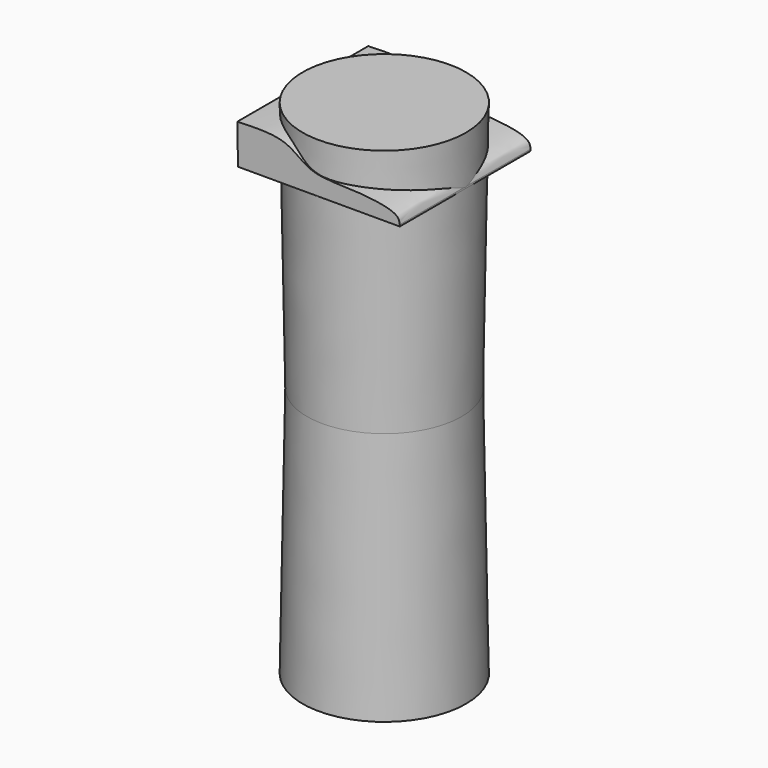
from build123d import *

# Parameters (mm, degrees)
F0_R     = 40
F1_DEPTH = 130
F1_TAPER = -1
F3_DEPTH = 42.3


with BuildPart() as f1:
    # F0 (on Top) → F1 (new body, symmetric)
    with BuildSketch(Plane.XY):
        Circle(F0_R)
    extrude(amount=F1_DEPTH, both=True, taper=F1_TAPER)

    # F2 (on Front) → F3 (join, symmetric)
    with BuildSketch(Plane.XZ):
        with BuildLine():
            Line((-42.1773418784, 124.7276589274), (-41.8206006289, 104.2985767126))
            Line((-41.8206006289, 104.2985767126), (41.8297946453, 104.2985767126))
            Line((41.8297946453, 104.2985767126), (41.8297946453, 105.1812469959))
            add(Edge.make_bspline(
                [(41.8297946453, 105.1812469959), (41.6157749104, 106.4704419084), (40.8982761169, 110.7911137137), (16.6683555436, 113.676945109), (-4.7971868357, 112.7602899856), (-16.7488550533, 125.8858769621), (-32.83872998, 124.9895518745), (-41.8206006289, 124.7496157885)],
                knots=[0, 0, 0, 0, 0.0993196903, 0.3330971636, 0.5644044532, 0.7569190321, 1, 1, 1, 1], degree=3))
            Line((-41.8206006289, 124.7496157885), (-42.1773418784, 124.7276589274))
        make_face()
    extrude(amount=F3_DEPTH, both=True)


solid = f1.part
